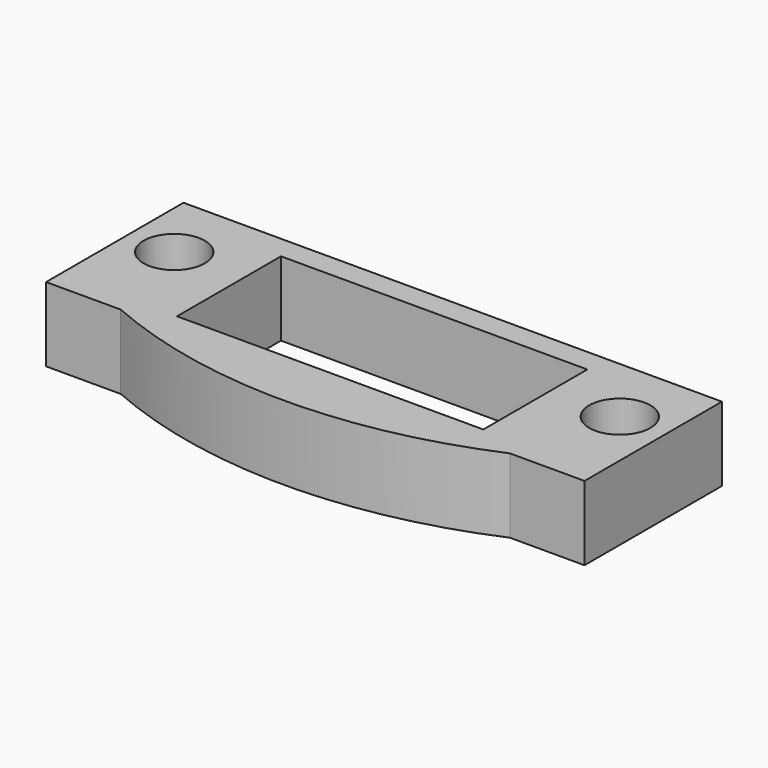
from build123d import *

# Parameters (mm, degrees)
F0_R     = 1.65
F0_W     = 16.5
F0_H     = 7
F1_DEPTH = 4
F2_SIZE  = 1.75


with BuildPart() as f1:
    # F0 (on Top) → F1 (new body)
    with BuildSketch(Plane.XY):
        with BuildLine():
            Line((10.478546, -5.5), (14.5, -5.5))
            Line((14.5, -5.5), (14.5, 3.75))
            Line((14.5, 3.75), (9.5, 3.75))
            Line((9.5, 3.75), (9.5, 5.5))
            Line((9.5, 5.5), (-9.5, 5.5))
            Line((-9.5, 5.5), (-9.5, 3.75))
            Line((-9.5, 3.75), (-14.5, 3.75))
            Line((-14.5, 3.75), (-14.5, -5.5))
            Line((-14.5, -5.5), (-10.478546, -5.5))
            ThreePointArc((-10.478546, -5.5), (0, -7.681161), (10.478546, -5.5))
        make_face()
        with Locations((-12, 0)):
            Circle(F0_R, mode=Mode.SUBTRACT)
        with Locations((0, -1)):
            Rectangle(F0_W, F0_H, mode=Mode.SUBTRACT)
        with Locations((12, 0)):
            Circle(F0_R, mode=Mode.SUBTRACT)
    extrude(amount=F1_DEPTH)

    # F2
    f2_edges = [f1.edges().sort_by_distance(p)[0] for p in [
        (0, 5.5, 4),
    ]]
    chamfer(f2_edges, length=F2_SIZE)


solid = f1.part
